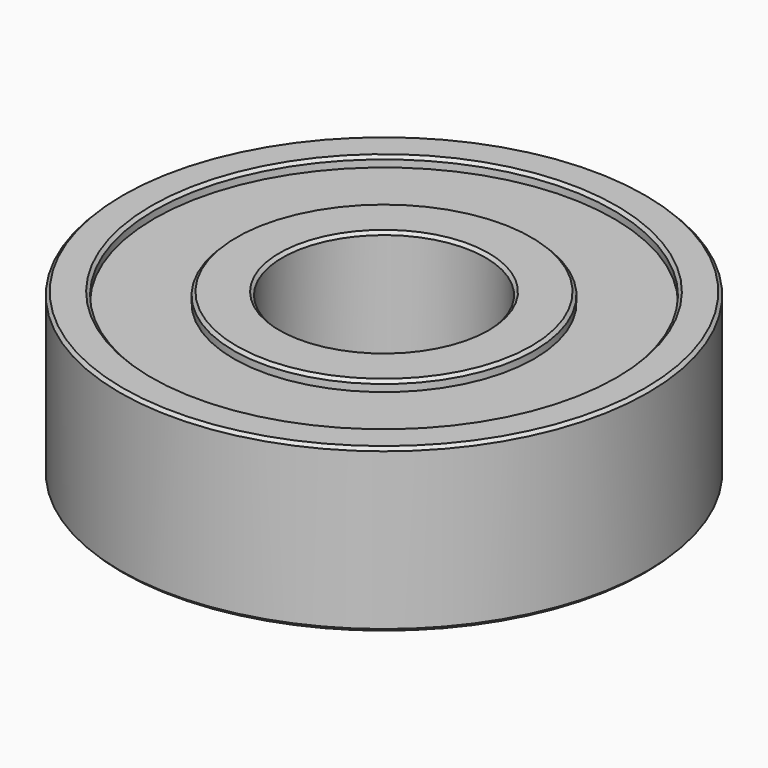
from build123d import *

# Parameters (mm, degrees)
F0_R     = 13
F0_R_2   = 11.3
F0_R_3   = 7.4
F0_R_4   = 5
F1_DEPTH = 8
F2_DEPTH = 0.5
F3_START = 7.5
F3_DEPTH = 0.5
F4_SIZE  = 0.15


with BuildPart() as f1:
    # F0 (on Top) → F1 (new body)
    with BuildSketch(Plane.XY):
        Circle(F0_R)
        Circle(F0_R_2, mode=Mode.SUBTRACT)
        Circle(F0_R_2)
        Circle(F0_R_3, mode=Mode.SUBTRACT)
        Circle(F0_R_3)
        Circle(F0_R_4, mode=Mode.SUBTRACT)
    extrude(amount=F1_DEPTH)

    # F0 (on Top) → F2 (cut)
    with BuildSketch(Plane.XY):
        Circle(F0_R_2)
        Circle(F0_R_3, mode=Mode.SUBTRACT)
    extrude(amount=F2_DEPTH, mode=Mode.SUBTRACT)

    # F0 (on Top) → F3 (cut)
    with BuildSketch(Plane.XY.offset(F3_START)):
        Circle(F0_R_2)
        Circle(F0_R_3, mode=Mode.SUBTRACT)
    extrude(amount=F3_DEPTH, mode=Mode.SUBTRACT)

    # F4
    f4_edges = [f1.edges().sort_by_distance(p)[0] for p in [
        (-13, 0, 0),
        (-11.3, 0, 0),
        (-7.4, 0, 0),
        (-5, 0, 0),
        (-13, 0, 8),
        (-11.3, 0, 8),
        (-7.4, 0, 8),
        (-5, 0, 8),
    ]]
    chamfer(f4_edges, length=F4_SIZE)


solid = f1.part
